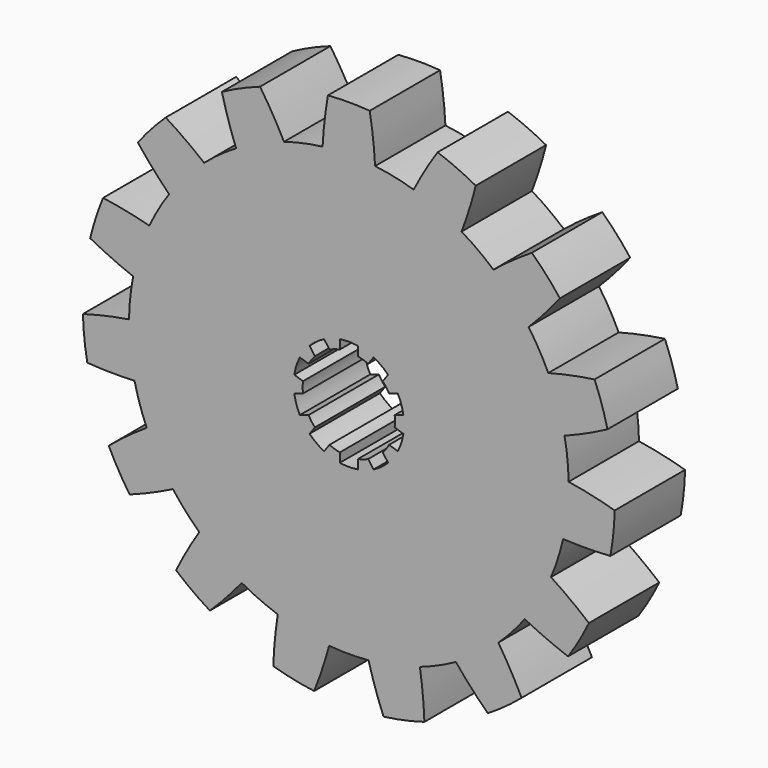
from build123d import *

# Parameters (mm, degrees)
F0_R     = 10.5
F1_DEPTH = 20
F3_DEPTH = 20


with BuildPart() as f1:
    # F0 (on Front) → F1 (new body)
    with BuildSketch(Plane.XZ):
        with BuildLine():
            ThreePointArc((48.7465207485, -11.125498412), (49.6856419775, -5.5979443805), (50, 0))
            ThreePointArc((50, 0), (49.9986033556, 0.3737144531), (49.9944135003, 0.7474080283))
            ThreePointArc((49.9944135003, 0.7474080283), (49.7260947684, 5.2264231634), (49.0573104823, 9.6633476726))
            ThreePointArc((49.0573104823, 9.6633476726), (47.5528258148, 15.4508497187), (45.3681711282, 21.017351129))
            ThreePointArc((45.3681711282, 21.017351129), (43.3012701892, 25), (40.8856455621, 28.7813131558))
            ThreePointArc((40.8856455621, 28.7813131558), (37.1572412739, 33.4565303179), (32.8973598112, 37.6532032827))
            ThreePointArc((32.8973598112, 37.6532032827), (29.3892626146, 40.4508497187), (25.6444810897, 42.9227281244))
            ThreePointArc((25.6444810897, 42.9227281244), (20.3368321538, 45.6772728821), (14.7382961197, 47.7784745203))
            ThreePointArc((14.7382961197, 47.7784745203), (10.3955845409, 48.9073800367), (5.9691528641, 49.6424134595))
            ThreePointArc((5.9691528641, 49.6424134595), (0, 50), (-5.9691528641, 49.6424134595))
            ThreePointArc((-5.9691528641, 49.6424134595), (-10.3955845409, 48.9073800367), (-14.7382961197, 47.7784745203))
            ThreePointArc((-14.7382961197, 47.7784745203), (-20.3368321538, 45.6772728821), (-25.6444810897, 42.9227281244))
            ThreePointArc((-25.6444810897, 42.9227281244), (-29.3892626146, 40.4508497187), (-32.8973598112, 37.6532032827))
            ThreePointArc((-32.8973598112, 37.6532032827), (-37.1572412739, 33.4565303179), (-40.8856455621, 28.7813131558))
            ThreePointArc((-40.8856455621, 28.7813131558), (-43.3012701892, 25), (-45.3681711282, 21.017351129))
            ThreePointArc((-45.3681711282, 21.017351129), (-47.5528258148, 15.4508497187), (-49.0573104823, 9.6633476726))
            ThreePointArc((-49.0573104823, 9.6633476726), (-49.7260947684, 5.2264231634), (-49.9944135003, 0.7474080283))
            ThreePointArc((-49.9944135003, 0.7474080283), (-49.7260947684, -5.2264231634), (-48.7465207485, -11.125498412))
            ThreePointArc((-48.7465207485, -11.125498412), (-47.5528258148, -15.4508497187), (-45.9761675932, -19.6517687104))
            ThreePointArc((-45.9761675932, -19.6517687104), (-43.3012701892, -25), (-40.007014729, -29.9906447492))
            ThreePointArc((-40.007014729, -29.9906447492), (-37.1572412739, -33.4565303179), (-34.0082246288, -36.6529761083))
            ThreePointArc((-34.0082246288, -36.6529761083), (-29.3892626146, -40.4508497187), (-24.3499324106, -43.6701361527))
            ThreePointArc((-24.3499324106, -43.6701361527), (-20.3368321538, -45.6772728821), (-16.1599506711, -47.3165509553))
            ThreePointArc((-16.1599506711, -47.3165509553), (-10.3955845409, -48.9073800367), (-4.4825255662, -49.7986642848))
            ThreePointArc((-4.4825255662, -49.7986642848), (0, -50), (4.4825255662, -49.7986642848))
            ThreePointArc((4.4825255662, -49.7986642848), (10.3955845409, -48.9073800367), (16.1599506711, -47.3165509553))
            ThreePointArc((16.1599506711, -47.3165509553), (20.3368321538, -45.6772728821), (24.3499324106, -43.6701361527))
            ThreePointArc((24.3499324106, -43.6701361527), (29.3892626146, -40.4508497187), (34.0082246288, -36.6529761083))
            ThreePointArc((34.0082246288, -36.6529761083), (37.1572412739, -33.4565303179), (40.007014729, -29.9906447492))
            ThreePointArc((40.007014729, -29.9906447492), (43.3012701892, -25), (45.9761675932, -19.6517687104))
            ThreePointArc((45.9761675932, -19.6517687104), (47.5528258148, -15.4508497187), (48.7465207485, -11.125498412))
        make_face()
        Circle(F0_R, mode=Mode.SUBTRACT)
        with BuildLine():
            ThreePointArc((32.8973598112, 37.6532032827), (37.1572412739, 33.4565303179), (40.8856455621, 28.7813131558))
            ThreePointArc((40.8856455621, 28.7813131558), (44.5632779762, 32.6976330099), (48.0006847114, 36.8264071996))
            ThreePointArc((48.0006847114, 36.8264071996), (44.9602619414, 40.4824016847), (41.6421060965, 43.8883241859))
            ThreePointArc((41.6421060965, 43.8883241859), (37.1766429201, 40.9013223457), (32.8973598112, 37.6532032827))
        make_face()
        with BuildLine():
            ThreePointArc((45.3681711282, 21.017351129), (47.5528258148, 15.4508497187), (49.0573104823, 9.6633476726))
            ThreePointArc((49.0573104823, 9.6633476726), (54.0099056598, 11.7452560234), (58.8294567228, 14.1189596537))
            ThreePointArc((58.8294567228, 14.1189596537), (57.5389192359, 18.6955281597), (55.8929465207, 23.1566087593))
            ThreePointArc((55.8929465207, 23.1566087593), (50.5986198183, 22.2441142983), (45.3681711282, 21.017351129))
        make_face()
        with BuildLine():
            ThreePointArc((49.9944135003, 0.7474080283), (49.9986033556, 0.3737144531), (50, 0))
            ThreePointArc((50, 0), (49.6856419775, -5.5979443805), (48.7465207485, -11.125498412))
            ThreePointArc((48.7465207485, -11.125498412), (54.1177299902, -11.2379824319), (59.4860812179, -11.0297842832))
            ThreePointArc((59.4860812179, -11.0297842832), (60.1685746698, -6.3239720277), (60.47938872, -1.579094693))
            ThreePointArc((60.47938872, -1.579094693), (55.2716356759, -0.2593031926), (49.9944135003, 0.7474080283))
        make_face()
        with BuildLine():
            ThreePointArc((54.6083951717, -26.0417583272), (50.3876835981, -22.7178848059), (45.9761675932, -19.6517687104))
            ThreePointArc((45.9761675932, -19.6517687104), (43.3012701892, -25), (40.007014729, -29.9906447492))
            ThreePointArc((40.007014729, -29.9906447492), (44.8681071612, -32.2780716308), (49.8570218564, -34.271378315))
            ThreePointArc((49.8570218564, -34.271378315), (52.394536929, -30.25), (54.6083951717, -26.0417583272))
        make_face()
        with BuildLine():
            ThreePointArc((39.2951139964, -46.0015653647), (36.7912432684, -41.2483377507), (34.0082246288, -36.6529761083))
            ThreePointArc((34.0082246288, -36.6529761083), (29.3892626146, -40.4508497187), (24.3499324106, -43.6701361527))
            ThreePointArc((24.3499324106, -43.6701361527), (27.8603809901, -47.7369890077), (31.6072304791, -51.5871396904))
            ThreePointArc((31.6072304791, -51.5871396904), (35.5610077637, -48.9455281597), (39.2951139964, -46.0015653647))
        make_face()
        with BuildLine():
            ThreePointArc((17.1873506263, -58.0072838396), (16.8332627397, -52.6465783691), (16.1599506711, -47.3165509553))
            ThreePointArc((16.1599506711, -47.3165509553), (10.3955845409, -48.9073800367), (4.4825255662, -49.7986642848))
            ThreePointArc((4.4825255662, -49.7986642848), (6.0353418421, -54.9417473083), (7.8922618093, -59.983015959))
            ThreePointArc((7.8922618093, -59.983015959), (12.5786572945, -59.1779298444), (17.1873506263, -58.0072838396))
        make_face()
        with BuildLine():
            ThreePointArc((-31.6072304791, -51.5871396904), (-27.8603809901, -47.7369890077), (-24.3499324106, -43.6701361527))
            ThreePointArc((-24.3499324106, -43.6701361527), (-29.3892626146, -40.4508497187), (-34.0082246288, -36.6529761083))
            ThreePointArc((-34.0082246288, -36.6529761083), (-36.7912432684, -41.2483377507), (-39.2951139964, -46.0015653647))
            ThreePointArc((-39.2951139964, -46.0015653647), (-35.5610077637, -48.9455281597), (-31.6072304791, -51.5871396904))
        make_face()
        with BuildLine():
            ThreePointArc((-7.8922618093, -59.983015959), (-6.0353418421, -54.9417473083), (-4.4825255662, -49.7986642848))
            ThreePointArc((-4.4825255662, -49.7986642848), (-10.3955845409, -48.9073800367), (-16.1599506711, -47.3165509553))
            ThreePointArc((-16.1599506711, -47.3165509553), (-16.8332627397, -52.6465783691), (-17.1873506263, -58.0072838396))
            ThreePointArc((-17.1873506263, -58.0072838396), (-12.5786572945, -59.1779298444), (-7.8922618093, -59.983015959))
        make_face()
        with BuildLine():
            ThreePointArc((-49.8570218564, -34.271378315), (-44.8681071612, -32.2780716308), (-40.007014729, -29.9906447492))
            ThreePointArc((-40.007014729, -29.9906447492), (-43.3012701892, -25), (-45.9761675932, -19.6517687104))
            ThreePointArc((-45.9761675932, -19.6517687104), (-50.3876835981, -22.7178848059), (-54.6083951717, -26.0417583272))
            ThreePointArc((-54.6083951717, -26.0417583272), (-52.394536929, -30.25), (-49.8570218564, -34.271378315))
        make_face()
        with BuildLine():
            ThreePointArc((-59.4860812179, -11.0297842832), (-54.1177299902, -11.2379824319), (-48.7465207485, -11.125498412))
            ThreePointArc((-48.7465207485, -11.125498412), (-49.7260947684, -5.2264231634), (-49.9944135003, 0.7474080283))
            ThreePointArc((-49.9944135003, 0.7474080283), (-55.2716356759, -0.2593031926), (-60.47938872, -1.579094693))
            ThreePointArc((-60.47938872, -1.579094693), (-60.1685746698, -6.3239720277), (-59.4860812179, -11.0297842832))
        make_face()
        with BuildLine():
            ThreePointArc((-49.0573104823, 9.6633476726), (-47.5528258148, 15.4508497187), (-45.3681711282, 21.017351129))
            ThreePointArc((-45.3681711282, 21.017351129), (-50.5986198183, 22.2441142983), (-55.8929465207, 23.1566087593))
            ThreePointArc((-55.8929465207, 23.1566087593), (-57.5389192359, 18.6955281597), (-58.8294567228, 14.1189596537))
            ThreePointArc((-58.8294567228, 14.1189596537), (-54.0099056598, 11.7452560234), (-49.0573104823, 9.6633476726))
        make_face()
        with BuildLine():
            ThreePointArc((-40.8856455621, 28.7813131558), (-37.1572412739, 33.4565303179), (-32.8973598112, 37.6532032827))
            ThreePointArc((-32.8973598112, 37.6532032827), (-37.1766429201, 40.9013223457), (-41.6421060965, 43.8883241859))
            ThreePointArc((-41.6421060965, 43.8883241859), (-44.9602619414, 40.4824016847), (-48.0006847114, 36.8264071996))
            ThreePointArc((-48.0006847114, 36.8264071996), (-44.5632779762, 32.6976330099), (-40.8856455621, 28.7813131558))
        make_face()
        with BuildLine():
            ThreePointArc((-25.6444810897, 42.9227281244), (-20.3368321538, 45.6772728821), (-14.7382961197, 47.7784745203))
            ThreePointArc((-14.7382961197, 47.7784745203), (-17.3264867218, 52.4863201826), (-20.1909672215, 57.0313496479))
            ThreePointArc((-20.1909672215, 57.0313496479), (-24.6075669061, 55.2695001874), (-28.8721582409, 53.1662343834))
            ThreePointArc((-28.8721582409, 53.1662343834), (-27.4112546859, 47.9962922004), (-25.6444810897, 42.9227281244))
        make_face()
        with BuildLine():
            ThreePointArc((-5.9691528641, 49.6424134595), (0, 50), (5.9691528641, 49.6424134595))
            ThreePointArc((5.9691528641, 49.6424134595), (5.5195764369, 54.9959564368), (4.7513733153, 60.3131366422))
            ThreePointArc((4.7513733153, 60.3131366422), (0, 60.5), (-4.7513733153, 60.3131366422))
            ThreePointArc((-4.7513733153, 60.3131366422), (-5.5195764369, 54.9959564368), (-5.9691528641, 49.6424134595))
        make_face()
        with BuildLine():
            ThreePointArc((14.7382961197, 47.7784745203), (20.3368321538, 45.6772728821), (25.6444810897, 42.9227281244))
            ThreePointArc((25.6444810897, 42.9227281244), (27.4112546859, 47.9962922004), (28.8721582409, 53.1662343834))
            ThreePointArc((28.8721582409, 53.1662343834), (24.6075669061, 55.2695001874), (20.1909672215, 57.0313496479))
            ThreePointArc((20.1909672215, 57.0313496479), (17.3264867218, 52.4863201826), (14.7382961197, 47.7784745203))
        make_face()
    extrude(amount=F1_DEPTH)

    # F2 (on Front) → F3 (cut)
    with BuildSketch(Plane.XZ):
        with BuildLine():
            Line((2.05, 10.2979366865), (2.05, 12.3814377194))
            ThreePointArc((2.05, 12.3814377194), (0, 12.55), (-2.05, 12.3814377194))
            Line((-2.05, 12.3814377194), (-2.05, 10.2979366865))
            ThreePointArc((-2.05, 10.2979366865), (0, 10.5), (2.05, 10.2979366865))
        make_face()
        with BuildLine():
            ThreePointArc((4.3944904749, 9.5361655536), (3.2446784409, 9.9860934211), (2.05, 10.2979366865))
            Line((2.05, 10.2979366865), (2.05, 6.3092512512))
            Line((2.05, 6.3092512512), (4.3944904749, 9.5361655536))
        make_face()
        with BuildLine():
            Line((2.05, 6.3092512512), (2.05, 10.2979366865))
            ThreePointArc((2.05, 10.2979366865), (0, 10.5), (-2.05, 10.2979366865))
            Line((-2.05, 10.2979366865), (-2.05, 6.3092512512))
            Line((-2.05, 6.3092512512), (0, 3.4876683142))
            Line((0, 3.4876683142), (2.05, 6.3092512512))
        make_face()
        with BuildLine():
            Line((-2.05, 6.3092512512), (-2.05, 10.2979366865))
            ThreePointArc((-2.05, 10.2979366865), (-3.2446784409, 9.9860934211), (-4.3944904749, 9.5361655536))
            Line((-4.3944904749, 9.5361655536), (-2.05, 6.3092512512))
        make_face()
        with BuildLine():
            Line((4.3944904749, 9.5361655536), (2.05, 6.3092512512))
            Line((2.05, 6.3092512512), (2.05, 2.821582937))
            Line((2.05, 2.821582937), (5.3669696769, 3.8993317168))
            Line((5.3669696769, 3.8993317168), (7.7114601519, 7.1262460192))
            ThreePointArc((7.7114601519, 7.1262460192), (6.1717451491, 8.4946784409), (4.3944904749, 9.5361655536))
        make_face()
        with BuildLine():
            Line((5.6191416552, 11.221753297), (4.3944904749, 9.5361655536))
            ThreePointArc((4.3944904749, 9.5361655536), (6.1717451491, 8.4946784409), (7.7114601519, 7.1262460192))
            Line((7.7114601519, 7.1262460192), (8.9361113321, 8.8118337626))
            ThreePointArc((8.9361113321, 8.8118337626), (7.3767049163, 10.1531632794), (5.6191416552, 11.221753297))
        make_face()
        with BuildLine():
            Line((-2.05, 2.821582937), (-2.05, 6.3092512512))
            Line((-2.05, 6.3092512512), (-4.3944904749, 9.5361655536))
            ThreePointArc((-4.3944904749, 9.5361655536), (-6.1717451491, 8.4946784409), (-7.7114601519, 7.1262460192))
            Line((-7.7114601519, 7.1262460192), (-5.3669696769, 3.8993317168))
            Line((-5.3669696769, 3.8993317168), (-2.05, 2.821582937))
        make_face()
        with BuildLine():
            ThreePointArc((-7.7114601519, 7.1262460192), (-6.1717451491, 8.4946784409), (-4.3944904749, 9.5361655536))
            Line((-4.3944904749, 9.5361655536), (-5.6191416552, 11.221753297))
            ThreePointArc((-5.6191416552, 11.221753297), (-7.3767049163, 10.1531632794), (-8.9361113321, 8.8118337626))
            Line((-8.9361113321, 8.8118337626), (-7.7114601519, 7.1262460192))
        make_face()
        with BuildLine():
            ThreePointArc((9.1604349517, 5.1319033015), (8.4946784409, 6.1717451491), (7.7114601519, 7.1262460192))
            Line((7.7114601519, 7.1262460192), (5.3669696769, 3.8993317168))
            Line((5.3669696769, 3.8993317168), (9.1604349517, 5.1319033015))
        make_face()
        with BuildLine():
            Line((-5.3669696769, 3.8993317168), (-7.7114601519, 7.1262460192))
            ThreePointArc((-7.7114601519, 7.1262460192), (-8.4946784409, 6.1717451491), (-9.1604349517, 5.1319033015))
            Line((-9.1604349517, 5.1319033015), (-5.3669696769, 3.8993317168))
        make_face()
        with BuildLine():
            Line((9.1604349517, 5.1319033015), (5.3669696769, 3.8993317168))
            Line((5.3669696769, 3.8993317168), (3.3169696769, 1.0777487798))
            Line((3.3169696769, 1.0777487798), (6.6339393539, 0))
            Line((6.6339393539, 0), (10.4274046286, 1.2325715847))
            ThreePointArc((10.4274046286, 1.2325715847), (9.9860934211, 3.2446784409), (9.1604349517, 5.1319033015))
        make_face()
        with BuildLine():
            Line((11.1419621857, 5.7757405285), (9.1604349517, 5.1319033015))
            ThreePointArc((9.1604349517, 5.1319033015), (9.9860934211, 3.2446784409), (10.4274046286, 1.2325715847))
            Line((10.4274046286, 1.2325715847), (12.4089318626, 1.8764088117))
            ThreePointArc((12.4089318626, 1.8764088117), (11.9357592795, 3.8781632794), (11.1419621857, 5.7757405285))
        make_face()
        with BuildLine():
            Line((-3.3169696769, 1.0777487798), (-5.3669696769, 3.8993317168))
            Line((-5.3669696769, 3.8993317168), (-9.1604349517, 5.1319033015))
            ThreePointArc((-9.1604349517, 5.1319033015), (-9.9860934211, 3.2446784409), (-10.4274046286, 1.2325715847))
            Line((-10.4274046286, 1.2325715847), (-6.6339393539, 0))
            Line((-6.6339393539, 0), (-3.3169696769, 1.0777487798))
        make_face()
        with BuildLine():
            ThreePointArc((-10.4274046286, 1.2325715847), (-9.9860934211, 3.2446784409), (-9.1604349517, 5.1319033015))
            Line((-9.1604349517, 5.1319033015), (-11.1419621857, 5.7757405285))
            ThreePointArc((-11.1419621857, 5.7757405285), (-11.9357592795, 3.8781632794), (-12.4089318626, 1.8764088117))
            Line((-12.4089318626, 1.8764088117), (-10.4274046286, 1.2325715847))
        make_face()
        with BuildLine():
            ThreePointArc((10.5, 0), (10.4818354452, 0.6173537882), (10.4274046286, 1.2325715847))
            Line((10.4274046286, 1.2325715847), (6.6339393539, 0))
            Line((6.6339393539, 0), (10.4274046286, -1.2325715847))
            ThreePointArc((10.4274046286, -1.2325715847), (10.4818354452, -0.6173537882), (10.5, 0))
        make_face()
        with BuildLine():
            Line((-6.6339393539, 0), (-10.4274046286, 1.2325715847))
            ThreePointArc((-10.4274046286, 1.2325715847), (-10.5, 0), (-10.4274046286, -1.2325715847))
            Line((-10.4274046286, -1.2325715847), (-6.6339393539, 0))
        make_face()
        with BuildLine():
            Line((10.4274046286, -1.2325715847), (6.6339393539, 0))
            Line((6.6339393539, 0), (3.3169696769, -1.0777487798))
            Line((3.3169696769, -1.0777487798), (5.3669696769, -3.8993317168))
            Line((5.3669696769, -3.8993317168), (9.1604349517, -5.1319033015))
            ThreePointArc((9.1604349517, -5.1319033015), (9.9860934211, -3.2446784409), (10.4274046286, -1.2325715847))
        make_face()
        with BuildLine():
            Line((-3.3169696769, -1.0777487798), (-6.6339393539, 0))
            Line((-6.6339393539, 0), (-10.4274046286, -1.2325715847))
            ThreePointArc((-10.4274046286, -1.2325715847), (-9.9860934211, -3.2446784409), (-9.1604349517, -5.1319033015))
            Line((-9.1604349517, -5.1319033015), (-5.3669696769, -3.8993317168))
            Line((-5.3669696769, -3.8993317168), (-3.3169696769, -1.0777487798))
        make_face()
        with BuildLine():
            ThreePointArc((-9.1604349517, -5.1319033015), (-9.9860934211, -3.2446784409), (-10.4274046286, -1.2325715847))
            Line((-10.4274046286, -1.2325715847), (-12.4089318626, -1.8764088117))
            ThreePointArc((-12.4089318626, -1.8764088117), (-11.9357592795, -3.8781632794), (-11.1419621857, -5.7757405285))
            Line((-11.1419621857, -5.7757405285), (-9.1604349517, -5.1319033015))
        make_face()
        with BuildLine():
            Line((12.4089318626, -1.8764088117), (10.4274046286, -1.2325715847))
            ThreePointArc((10.4274046286, -1.2325715847), (9.9860934211, -3.2446784409), (9.1604349517, -5.1319033015))
            Line((9.1604349517, -5.1319033015), (11.1419621857, -5.7757405285))
            ThreePointArc((11.1419621857, -5.7757405285), (11.9357592795, -3.8781632794), (12.4089318626, -1.8764088117))
        make_face()
        with BuildLine():
            Line((-5.3669696769, -3.8993317168), (-9.1604349517, -5.1319033015))
            ThreePointArc((-9.1604349517, -5.1319033015), (-8.4946784409, -6.1717451491), (-7.7114601519, -7.1262460192))
            Line((-7.7114601519, -7.1262460192), (-5.3669696769, -3.8993317168))
        make_face()
        with BuildLine():
            Line((5.3669696769, -3.8993317168), (2.05, -2.821582937))
            Line((2.05, -2.821582937), (2.05, -6.3092512512))
            Line((2.05, -6.3092512512), (4.3944904749, -9.5361655536))
            ThreePointArc((4.3944904749, -9.5361655536), (6.1717451491, -8.4946784409), (7.7114601519, -7.1262460192))
            Line((7.7114601519, -7.1262460192), (5.3669696769, -3.8993317168))
        make_face()
        with BuildLine():
            Line((9.1604349517, -5.1319033015), (5.3669696769, -3.8993317168))
            Line((5.3669696769, -3.8993317168), (7.7114601519, -7.1262460192))
            ThreePointArc((7.7114601519, -7.1262460192), (8.4946784409, -6.1717451491), (9.1604349517, -5.1319033015))
        make_face()
        with BuildLine():
            Line((-2.05, -6.3092512512), (-2.05, -2.821582937))
            Line((-2.05, -2.821582937), (-5.3669696769, -3.8993317168))
            Line((-5.3669696769, -3.8993317168), (-7.7114601519, -7.1262460192))
            ThreePointArc((-7.7114601519, -7.1262460192), (-6.1717451491, -8.4946784409), (-4.3944904749, -9.5361655536))
            Line((-4.3944904749, -9.5361655536), (-2.05, -6.3092512512))
        make_face()
        with BuildLine():
            ThreePointArc((-4.3944904749, -9.5361655536), (-6.1717451491, -8.4946784409), (-7.7114601519, -7.1262460192))
            Line((-7.7114601519, -7.1262460192), (-8.9361113321, -8.8118337626))
            ThreePointArc((-8.9361113321, -8.8118337626), (-7.3767049163, -10.1531632794), (-5.6191416552, -11.221753297))
            Line((-5.6191416552, -11.221753297), (-4.3944904749, -9.5361655536))
        make_face()
        with BuildLine():
            Line((4.3944904749, -9.5361655536), (2.05, -6.3092512512))
            Line((2.05, -6.3092512512), (2.05, -10.2979366865))
            ThreePointArc((2.05, -10.2979366865), (3.2446784409, -9.9860934211), (4.3944904749, -9.5361655536))
        make_face()
        with BuildLine():
            Line((2.05, -10.2979366865), (2.05, -6.3092512512))
            Line((2.05, -6.3092512512), (0, -3.4876683142))
            Line((0, -3.4876683142), (-2.05, -6.3092512512))
            Line((-2.05, -6.3092512512), (-2.05, -10.2979366865))
            ThreePointArc((-2.05, -10.2979366865), (0, -10.5), (2.05, -10.2979366865))
        make_face()
        with BuildLine():
            Line((8.9361113321, -8.8118337626), (7.7114601519, -7.1262460192))
            ThreePointArc((7.7114601519, -7.1262460192), (6.1717451491, -8.4946784409), (4.3944904749, -9.5361655536))
            Line((4.3944904749, -9.5361655536), (5.6191416552, -11.221753297))
            ThreePointArc((5.6191416552, -11.221753297), (7.3767049163, -10.1531632794), (8.9361113321, -8.8118337626))
        make_face()
        with BuildLine():
            Line((-2.05, -10.2979366865), (-2.05, -6.3092512512))
            Line((-2.05, -6.3092512512), (-4.3944904749, -9.5361655536))
            ThreePointArc((-4.3944904749, -9.5361655536), (-3.2446784409, -9.9860934211), (-2.05, -10.2979366865))
        make_face()
        with BuildLine():
            Line((2.05, -12.3814377194), (2.05, -10.2979366865))
            ThreePointArc((2.05, -10.2979366865), (0, -10.5), (-2.05, -10.2979366865))
            Line((-2.05, -10.2979366865), (-2.05, -12.3814377194))
            ThreePointArc((-2.05, -12.3814377194), (0, -12.55), (2.05, -12.3814377194))
        make_face()
    extrude(amount=F3_DEPTH, mode=Mode.SUBTRACT)


solid = f1.part
